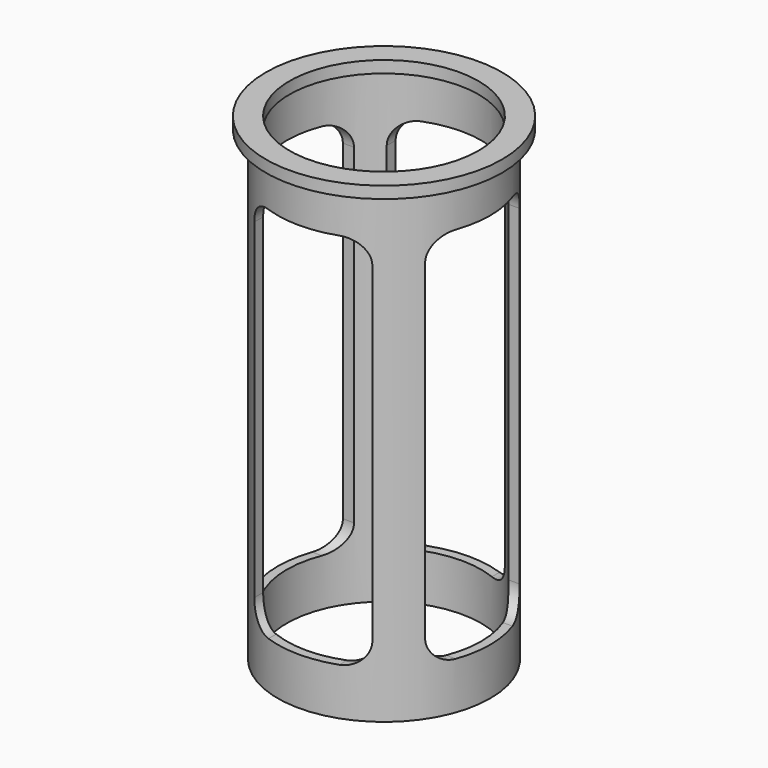
from build123d import *

# Parameters (mm, degrees)
F0_R     = 15.875
F0_R_2   = 14.2875
F0_R_3   = 13.0683
F0_R_4   = 12.7
F1_DEPTH = 0.79375
F2_DEPTH = 63.5
F4_DEPTH = 15.875
F6_DEPTH = 15.875


with BuildPart() as f1:
    # F0 (on Top) → F1 (new body, symmetric)
    with BuildSketch(Plane.XY):
        Circle(F0_R)
        Circle(F0_R_2, mode=Mode.SUBTRACT)
        Circle(F0_R_2)
        Circle(F0_R_3, mode=Mode.SUBTRACT)
        Circle(F0_R_3)
        Circle(F0_R_4, mode=Mode.SUBTRACT)
    extrude(amount=F1_DEPTH, both=True)


with BuildPart() as f2:
    # F0 (on Top) → F2 (new body)
    with BuildSketch(Plane.XY):
        Circle(F0_R_2)
        Circle(F0_R_3, mode=Mode.SUBTRACT)
    extrude(amount=-F2_DEPTH)

    # F3 (on Right) → F4 (cut, symmetric)
    with BuildSketch(Plane.YZ):
        with BuildLine():
            Line((4.7625, -6.35), (-4.7625, -6.35))
            ThreePointArc((-4.7625, -6.35), (-7.0075640303, -7.2799359697), (-7.9375, -9.525))
            Line((-7.9375, -9.525), (-7.9375, -53.975))
            ThreePointArc((-7.9375, -53.975), (-7.0075640303, -56.2200640303), (-4.7625, -57.15))
            Line((-4.7625, -57.15), (4.7625, -57.15))
            ThreePointArc((4.7625, -57.15), (7.0075640303, -56.2200640303), (7.9375, -53.975))
            Line((7.9375, -53.975), (7.9375, -9.525))
            ThreePointArc((7.9375, -9.525), (7.0075640303, -7.2799359697), (4.7625, -6.35))
        make_face()
    extrude(amount=F4_DEPTH, both=True, mode=Mode.SUBTRACT)

    # F5 (on Front) → F6 (cut, symmetric)
    with BuildSketch(Plane.XZ):
        with BuildLine():
            ThreePointArc((7.9375, -9.525), (7.0075640303, -7.2799359697), (4.7625, -6.35))
            Line((4.7625, -6.35), (-4.7625, -6.35))
            ThreePointArc((-4.7625, -6.35), (-7.0075640303, -7.2799359697), (-7.9375, -9.525))
            Line((-7.9375, -9.525), (-7.9375, -53.975))
            ThreePointArc((-7.9375, -53.975), (-7.0075640303, -56.2200640303), (-4.7625, -57.15))
            Line((-4.7625, -57.15), (4.7625, -57.15))
            ThreePointArc((4.7625, -57.15), (7.0075640303, -56.2200640303), (7.9375, -53.975))
            Line((7.9375, -53.975), (7.9375, -9.525))
        make_face()
    extrude(amount=F6_DEPTH, both=True, mode=Mode.SUBTRACT)


solid = Compound([f1.part, f2.part])
